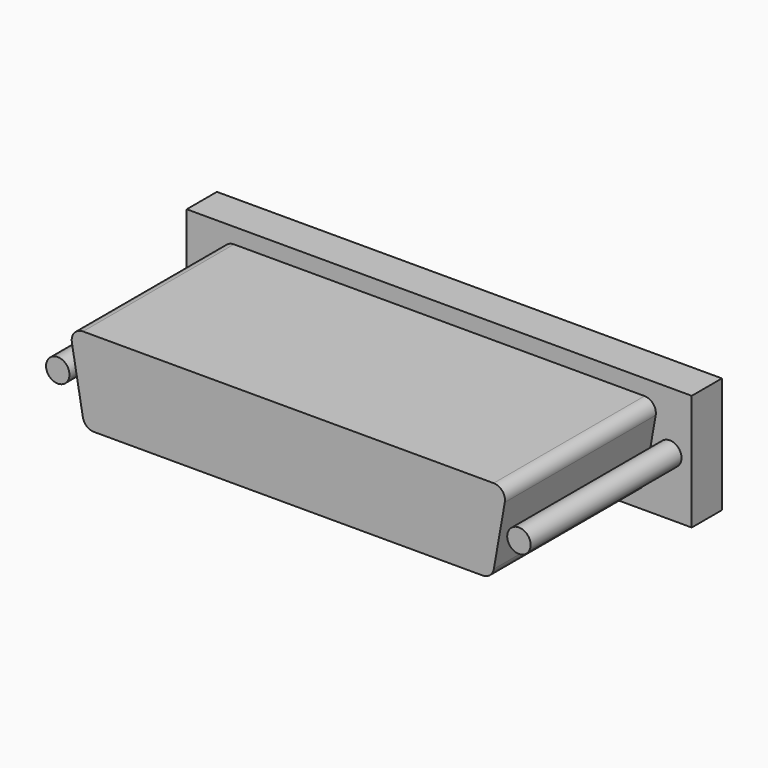
from build123d import *

# Parameters (mm, degrees)
F0_R     = 1.55
F1_DEPTH = 25
F0_W     = 66.93
F0_H     = 15.37
F2_DEPTH = 5


with BuildPart() as f1:
    # F0 (on Front) → F1 (new body)
    with BuildSketch(Plane.XZ):
        with BuildLine():
            Line((27.234884, -4.385472), (28.689581, 3.864528))
            ThreePointArc((28.689581, 3.864528), (28.361436, 5.089181), (27.21237, 5.625))
            Line((27.21237, 5.625), (0, 5.625))
            Line((0, 5.625), (-27.21237, 5.625))
            ThreePointArc((-27.21237, 5.625), (-28.361436, 5.089181), (-28.689581, 3.864528))
            Line((-28.689581, 3.864528), (-27.234884, -4.385472))
            ThreePointArc((-27.234884, -4.385472), (-26.721853, -5.274067), (-25.757672, -5.625))
            Line((-25.757672, -5.625), (0, -5.625))
            Line((0, -5.625), (25.757672, -5.625))
            ThreePointArc((25.757672, -5.625), (26.721853, -5.274067), (27.234884, -4.385472))
        make_face()
        with Locations((-30.56, 0)):
            Circle(F0_R)
        with Locations((30.56, 0)):
            Circle(F0_R)
    extrude(amount=F1_DEPTH)

    # F0 (on Front) → F2 (join)
    with BuildSketch(Plane.XZ):
        Rectangle(F0_W, F0_H)
        with Locations((-30.56, 0)):
            Circle(F0_R, mode=Mode.SUBTRACT)
        with BuildLine():
            ThreePointArc((27.21237, 5.625), (28.361436, 5.089181), (28.689581, 3.864528))
            Line((28.689581, 3.864528), (27.234884, -4.385472))
            ThreePointArc((27.234884, -4.385472), (26.721853, -5.274067), (25.757672, -5.625))
            Line((25.757672, -5.625), (0, -5.625))
            Line((0, -5.625), (-25.757672, -5.625))
            ThreePointArc((-25.757672, -5.625), (-26.721853, -5.274067), (-27.234884, -4.385472))
            Line((-27.234884, -4.385472), (-28.689581, 3.864528))
            ThreePointArc((-28.689581, 3.864528), (-28.361436, 5.089181), (-27.21237, 5.625))
            Line((-27.21237, 5.625), (0, 5.625))
            Line((0, 5.625), (27.21237, 5.625))
        make_face(mode=Mode.SUBTRACT)
        with Locations((30.56, 0)):
            Circle(F0_R, mode=Mode.SUBTRACT)
        with BuildLine():
            Line((27.234884, -4.385472), (28.689581, 3.864528))
            ThreePointArc((28.689581, 3.864528), (28.361436, 5.089181), (27.21237, 5.625))
            Line((27.21237, 5.625), (0, 5.625))
            Line((0, 5.625), (-27.21237, 5.625))
            ThreePointArc((-27.21237, 5.625), (-28.361436, 5.089181), (-28.689581, 3.864528))
            Line((-28.689581, 3.864528), (-27.234884, -4.385472))
            ThreePointArc((-27.234884, -4.385472), (-26.721853, -5.274067), (-25.757672, -5.625))
            Line((-25.757672, -5.625), (0, -5.625))
            Line((0, -5.625), (25.757672, -5.625))
            ThreePointArc((25.757672, -5.625), (26.721853, -5.274067), (27.234884, -4.385472))
        make_face()
        with Locations((30.56, 0)):
            Circle(F0_R)
        with Locations((-30.56, 0)):
            Circle(F0_R)
    extrude(amount=-F2_DEPTH)


solid = f1.part
